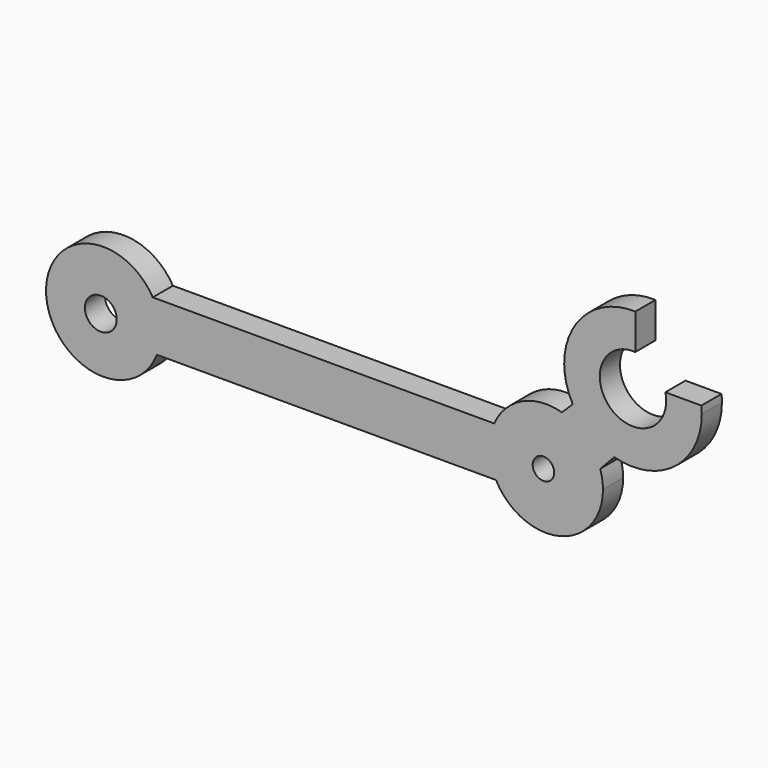
from build123d import *

# Parameters (mm, degrees)
F1_DEPTH = 3
F2_R     = 1.283776
F2_R_2   = 1.895661
F3_DEPTH = 25


with BuildPart() as f1:
    # F0 (on Front) → F1 (new body)
    with BuildSketch(Plane.XZ):
        with BuildLine():
            ThreePointArc((-51.838544, 8.459126), (-64.523479, 4.480595), (-51.362625, 2.602243))
            ThreePointArc((-51.362625, 2.602243), (-51.02753, 3.796946), (-50.914583, 5.032602))
            ThreePointArc((-50.914583, 5.032602), (-51.149626, 6.807057), (-51.838544, 8.459126))
        make_face()
        with BuildLine():
            ThreePointArc((-10.979131, 2.602243), (-3.37958, -0.810089), (1.756092, 5.749031))
            ThreePointArc((1.756092, 5.749031), (1.674745, 6.794308), (1.432664, 7.814415))
            ThreePointArc((1.432664, 7.814415), (-0.299236, 10.601743), (-3.140129, 12.244302))
            ThreePointArc((-3.140129, 12.244302), (-7.875475, 11.86312), (-11.189328, 8.459126))
            ThreePointArc((-11.189328, 8.459126), (-11.752334, 5.506707), (-10.979131, 2.602243))
        make_face()
        with BuildLine():
            Line((-51.362625, 2.602243), (-10.979131, 2.602243))
            ThreePointArc((-10.979131, 2.602243), (-11.752334, 5.506707), (-11.189328, 8.459126))
            Line((-11.189328, 8.459126), (-51.838544, 8.459126))
            ThreePointArc((-51.838544, 8.459126), (-51.149626, 6.807057), (-50.914583, 5.032602))
            ThreePointArc((-50.914583, 5.032602), (-51.02753, 3.796946), (-51.362625, 2.602243))
        make_face()
        with BuildLine():
            ThreePointArc((-3.140129, 12.244302), (-0.299236, 10.601743), (1.432664, 7.814415))
            Line((1.432664, 7.814415), (3.10916, 9.585316))
            ThreePointArc((3.10916, 9.585316), (0.235734, 11.055458), (-1.846335, 13.521809))
            Line((-1.846335, 13.521809), (-3.140129, 12.244302))
        make_face()
        with BuildLine():
            ThreePointArc((-1.846335, 13.521809), (0.235734, 11.055458), (3.10916, 9.585316))
            ThreePointArc((3.10916, 9.585316), (10.272305, 10.939219), (13.51736, 17.467106))
            ThreePointArc((13.51736, 17.467106), (13.505274, 17.911841), (13.469051, 18.355263))
            Line((13.469051, 18.355263), (9.177633, 18.355263))
            ThreePointArc((9.177633, 18.355263), (9.253414, 17.914055), (9.278783, 17.467106))
            ThreePointArc((9.278783, 17.467106), (2.440658, 14.77286), (5.603206, 21.407406))
            Line((5.603206, 21.407406), (5.603206, 25.650922))
            ThreePointArc((5.603206, 25.650922), (-1.648507, 21.752567), (-1.846335, 13.521809))
        make_face()
    extrude(amount=-F1_DEPTH)

    # F2 (on Front) → F3 (cut)
    with BuildSketch(Plane.XZ):
        with Locations((-5.328947, 5.625001)):
            Circle(F2_R)
        with Locations((-58.026318, 4.736843)):
            Circle(F2_R_2)
    extrude(amount=-F3_DEPTH, mode=Mode.SUBTRACT)


solid = f1.part
